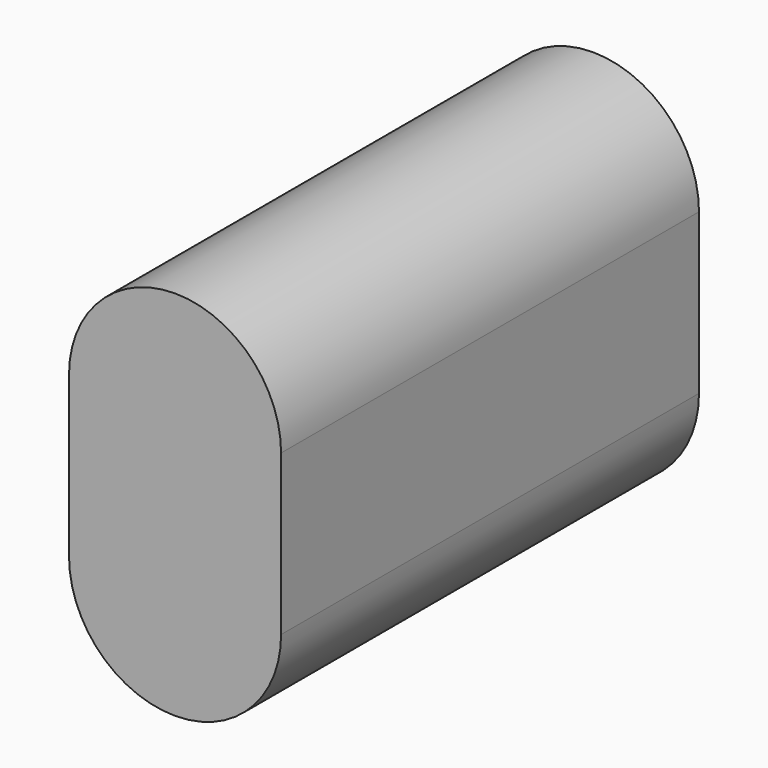
from build123d import *

# Parameters (mm, degrees)
F1_DEPTH = 50


with BuildPart() as f1:
    # F0 (on Front) → F1 (new body)
    with BuildSketch(Plane.XZ):
        with BuildLine():
            ThreePointArc((10.15, 7.65), (0, 17.8), (-10.15, 7.65))
            Line((-10.15, 7.65), (-10.15, -7.65))
            ThreePointArc((-10.15, -7.65), (0, -17.8), (10.15, -7.65))
            Line((10.15, -7.65), (10.15, 7.65))
        make_face()
    extrude(amount=-F1_DEPTH)


solid = f1.part
